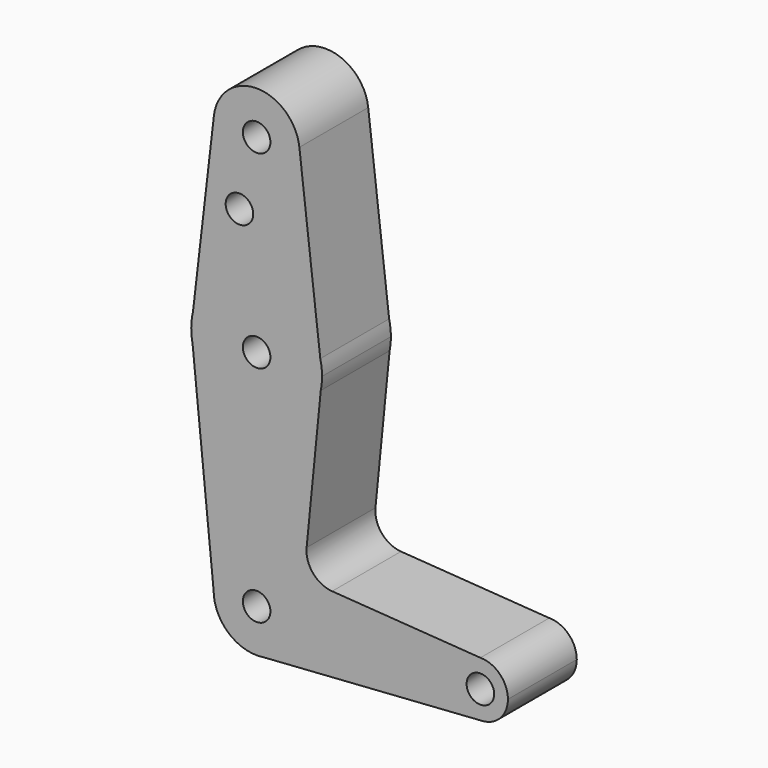
from build123d import *

# Parameters (mm, degrees)
F0_R     = 4
F1_DEPTH = 25


with BuildPart() as f1:
    # F0 (on Front) → F1 (new body)
    with BuildSketch(Plane.XZ):
        with BuildLine():
            ThreePointArc((1.7153142053, -12.3817485509), (9.425800432, -8.2100113408), (12.5, 0))
            ThreePointArc((12.5, 0), (0, 12.5), (-12.5, 0))
            ThreePointArc((-12.5, 0), (-8.8388347648, -8.8388347648), (0, -12.5))
            Line((0, -12.5), (1.7153142053, -12.3817485509))
        make_face()
        Circle(F0_R, mode=Mode.SUBTRACT)
        with BuildLine():
            ThreePointArc((-12.5, 0), (0, 12.5), (12.5, 0))
            ThreePointArc((12.5, 0), (9.425800432, -8.2100113408), (1.7153142053, -12.3817485509))
            Line((1.7153142053, -12.3817485509), (65.5502033349, -7.9810573416))
            ThreePointArc((65.5502033349, -7.9810573416), (57.0047370671, -0.2752646609), (65, 8))
            Line((65, 8), (21.9245263595, 11.0022438251))
            ThreePointArc((21.9245263595, 11.0022438251), (16.3684000055, 13.8215743024), (14.5197193706, 19.771493992))
            Line((14.5197193706, 19.771493992), (18.6307429943, 61.272344506))
            ThreePointArc((18.6307429943, 61.272344506), (0.0177077601, 46.0000082517), (-18.6237623762, 61.2376237624))
            Line((-18.6237623762, 61.2376237624), (-12.5, 0))
        make_face()
        with BuildLine():
            ThreePointArc((0, -12.5), (0.8596927108, -12.4704020963), (1.7153142053, -12.3817485509))
            Line((1.7153142053, -12.3817485509), (0, -12.5))
        make_face()
        with BuildLine():
            Line((-19, 65), (-18.6237623762, 61.2376237624))
            ThreePointArc((-18.6237623762, 61.2376237624), (0.0177077601, 46.0000082517), (18.6307429943, 61.272344506))
            Line((18.6307429943, 61.272344506), (19, 65))
            Line((19, 65), (18.4899446576, 69.3728648001))
            ThreePointArc((18.4899446576, 69.3728648001), (0, 84), (-18.4899446576, 69.3728648001))
            Line((-18.4899446576, 69.3728648001), (-19, 65))
        make_face()
        with Locations((0, 65)):
            Circle(F0_R, mode=Mode.SUBTRACT)
        with BuildLine():
            ThreePointArc((-19, 65), (-18.905706614, 63.1094293386), (-18.6237623762, 61.2376237624))
            Line((-18.6237623762, 61.2376237624), (-19, 65))
        make_face()
        with BuildLine():
            ThreePointArc((65, 8), (57.0047370671, -0.2752646609), (65.5502033349, -7.9810573416))
            ThreePointArc((65.5502033349, -7.9810573416), (70.8481461455, -5.4588631289), (73, 0))
            ThreePointArc((73, 0), (70.6568542495, 5.6568542495), (65, 8))
        make_face()
        with Locations((65, 0)):
            Circle(F0_R, mode=Mode.SUBTRACT)
        with BuildLine():
            ThreePointArc((-18.4899446576, 69.3728648001), (-18.8720553795, 67.2012554947), (-19, 65))
            Line((-19, 65), (-18.4899446576, 69.3728648001))
        make_face()
        with BuildLine():
            Line((19, 65), (18.6307429943, 61.272344506))
            ThreePointArc((18.6307429943, 61.272344506), (18.9074603912, 63.1270500395), (19, 65))
        make_face()
        with BuildLine():
            Line((-12.4158259076, 121.4481944044), (-18.4899446576, 69.3728648001))
            ThreePointArc((-18.4899446576, 69.3728648001), (0, 84), (18.4899446576, 69.3728648001))
            Line((18.4899446576, 69.3728648001), (12.4158259076, 121.4481944044))
            ThreePointArc((12.4158259076, 121.4481944044), (12.4789387338, 120.7253192936), (12.5, 120))
            ThreePointArc((12.5, 120), (-0.7253192936, 107.5210612662), (-12.4158259076, 121.4481944044))
        make_face()
        with Locations((-5, 100)):
            Circle(F0_R, mode=Mode.SUBTRACT)
        with BuildLine():
            Line((18.4899446576, 69.3728648001), (19, 65))
            ThreePointArc((19, 65), (18.8720553795, 67.2012554947), (18.4899446576, 69.3728648001))
        make_face()
        with BuildLine():
            ThreePointArc((12.4158259076, 121.4481944044), (0, 132.5), (-12.4158259076, 121.4481944044))
            ThreePointArc((-12.4158259076, 121.4481944044), (-0.7253192936, 107.5210612662), (12.5, 120))
            ThreePointArc((12.5, 120), (12.4789387338, 120.7253192936), (12.4158259076, 121.4481944044))
        make_face()
        with Locations((0, 120)):
            Circle(F0_R, mode=Mode.SUBTRACT)
    extrude(amount=F1_DEPTH)


solid = f1.part
